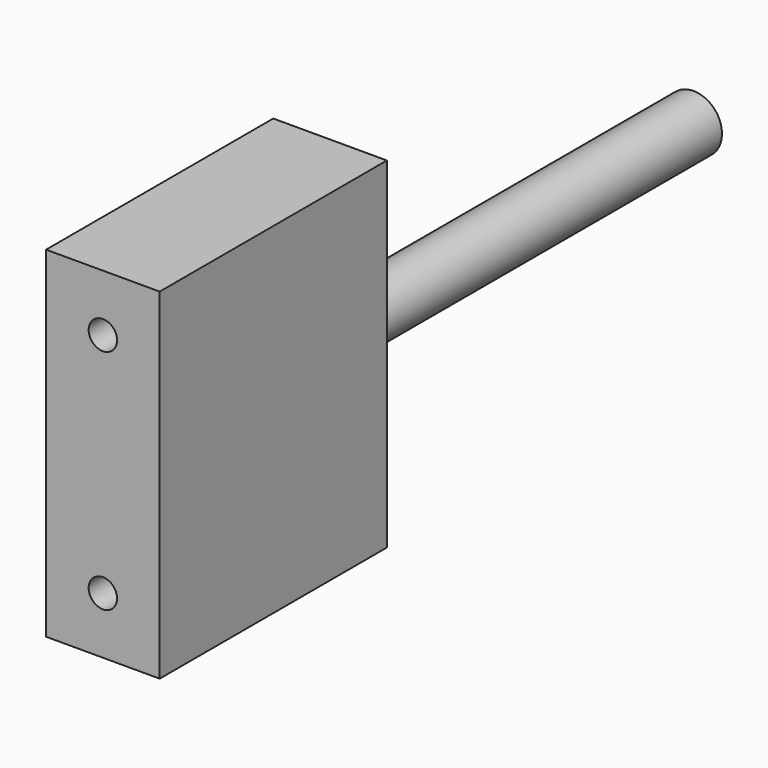
from build123d import *

# Parameters (mm, degrees)
F0_W     = 20
F0_H     = 50
F1_DEPTH = 60
F2_R     = 2.5
F3_DEPTH = 20
F4_R     = 5
F5_DEPTH = 80


with BuildPart() as f1:
    # F0 (on Top) → F1 (new body)
    with BuildSketch(Plane.XY):
        Rectangle(F0_W, F0_H)
    extrude(amount=F1_DEPTH)

    # F2 (on face) → F3 (cut)
    with BuildSketch(Plane.XZ.offset(25)):
        with Locations((0, 50)):
            Circle(F2_R)
        with Locations((0, 10)):
            Circle(F2_R)
    extrude(amount=-F3_DEPTH, mode=Mode.SUBTRACT)

    # F4 (on face) → F5 (join)
    with BuildSketch(Plane(origin=(0, 25, 0), x_dir=(-1, 0, 0), z_dir=(0, 1, 0))):
        with Locations((0, 30)):
            Circle(F4_R)
    extrude(amount=F5_DEPTH)


solid = f1.part
